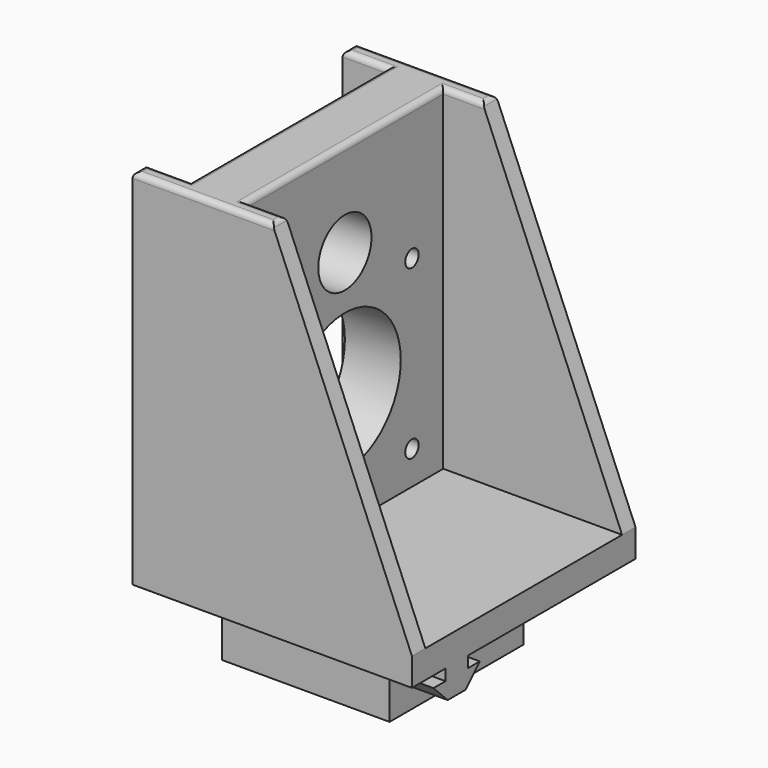
from build123d import *

# Parameters (mm, degrees)
SKETCH_W        = 50
SKETCH_H        = 85
PAD_DEPTH       = 50
POCKET_DEPTH    = 50
POCKET001_DEPTH = 30
SKETCH003_W     = 16
SKETCH003_H     = 26
POCKET002_DEPTH = 26
SKETCH004_R     = 2
POCKET003_DEPTH = 4
SKETCH005_R     = 2
POCKET004_DEPTH = 4
POCKET005_DEPTH = 2
SKETCH007_W     = 44
SKETCH007_H     = 60
POCKET006_DEPTH = 32
SKETCH008_R     = 12.5
SKETCH008_R_2   = 1.5
SKETCH008_R_3   = 5.95
POCKET007_DEPTH = 18
SKETCH009_W     = 44
SKETCH009_H     = 60
POCKET008_DEPTH = 8
POCKET009_DEPTH = 50.001
FILLET_R        = 1


with BuildPart() as part:
    # Sketch → Pad (new body)
    with BuildSketch(Plane.YZ):
        Rectangle(SKETCH_W, SKETCH_H)
    extrude(amount=PAD_DEPTH)

    # Sketch001 (on Face6 of Pad) → Pocket (cut)
    with BuildSketch(Plane.YZ.offset(50)):
        Polygon((-25, -22.5), (-25, -42.5), (-5, -42.5), (-5, -22.5), (-12.51604, -22.5), (-12.51604, -24.5), (-9.81604, -24.5), (-13, -27.68), (-17, -27.68), (-20.18396, -24.5), (-17.48396, -24.5), (-17.48396, -22.5), align=None)
    extrude(amount=-POCKET_DEPTH, mode=Mode.SUBTRACT)

    # Sketch002 (on Face3 of Pocket) → Pocket001 (cut)
    with BuildSketch(Plane.ZX.offset(25)):
        Polygon((-22.5, 50), (-42.5, 50), (-42.5, 30), (-22.5, 30), (-22.5, 37.52), (-24.5, 37.52), (-24.5, 34.82), (-27.68, 38), (-27.68, 42), (-24.5, 45.18), (-24.5, 42.48), (-22.5, 42.48), align=None)
    extrude(amount=-POCKET001_DEPTH, mode=Mode.SUBTRACT)

    # Sketch003 (on Face3 of Pocket001) → Pocket002 (cut)
    with BuildSketch(Plane.ZX.offset(25)):
        with Locations((-32.5, 13)):
            Rectangle(SKETCH003_W, SKETCH003_H)
    extrude(amount=-POCKET002_DEPTH, mode=Mode.SUBTRACT)

    # Sketch004 (on Face30 of Pocket002) → Pocket003 (cut)
    with BuildSketch(Plane.ZX.offset(-1)):
        with Locations((-32.5, 13)):
            Circle(SKETCH004_R)
    extrude(amount=-POCKET003_DEPTH, mode=Mode.SUBTRACT)

    # Sketch005 (on Face8 of Pocket003) → Pocket004 (cut)
    with BuildSketch(Plane(origin=(26, 0, 0), x_dir=(0, 1, 0), z_dir=(-1, 0, 0))):
        with Locations((12, 32.5)):
            Circle(SKETCH005_R)
    extrude(amount=-POCKET004_DEPTH, mode=Mode.SUBTRACT)

    # Sketch006 (on Face10 of Pocket004) → Pocket005 (cut)
    with BuildSketch(Plane.YX.offset(42.5)):
        Polygon((-1, 0), (25, 26), (25, 0), align=None)
    extrude(amount=-POCKET005_DEPTH, mode=Mode.SUBTRACT)

    # Sketch007 (on Face5 of Pocket005) → Pocket006 (cut)
    with BuildSketch(Plane.YZ.offset(50)):
        with Locations((0, 12.5)):
            Rectangle(SKETCH007_W, SKETCH007_H)
    extrude(amount=-POCKET006_DEPTH, mode=Mode.SUBTRACT)

    # Sketch008 (on Face6 of Pocket006) → Pocket007 (cut)
    with BuildSketch(Plane.YZ.offset(18)):
        with Locations((0, 3.5)):
            Circle(SKETCH008_R)
        with Locations((-15, 18.5)):
            Circle(SKETCH008_R_2)
        with Locations((15, 18.5)):
            Circle(SKETCH008_R_2)
        with Locations((15, -11.5)):
            Circle(SKETCH008_R_2)
        with Locations((-15, -11.5)):
            Circle(SKETCH008_R_2)
        with Locations((0, 25.5)):
            Circle(SKETCH008_R_3)
    extrude(amount=-POCKET007_DEPTH, mode=Mode.SUBTRACT)

    # Sketch009 (on Face2 of Pocket007) → Pocket008 (cut)
    with BuildSketch(Plane(origin=(0, 0, 0), x_dir=(0, 1, 0), z_dir=(-1, 0, 0))):
        with Locations((0, -12.5)):
            Rectangle(SKETCH009_W, SKETCH009_H)
    extrude(amount=-POCKET008_DEPTH, mode=Mode.SUBTRACT)

    # Sketch010 (on Face11 of Pocket008) → Pocket009 (cut, through all)
    with BuildSketch(Plane(origin=(0, -25, 0), x_dir=(0, 0, -1), z_dir=(0, -1, 0))):
        Polygon((17.5, 50), (-42.5, 50), (-42.5, 25), align=None)
    extrude(amount=-POCKET009_DEPTH, mode=Mode.SUBTRACT)

    # Fillet
    fillet_edges = [part.edges().sort_by_distance(p)[0] for p in [
        (18, 0, 42.5),
        (0, -23.5, 42.5),
        (4, -22, 42.5),
        (8, 0, 42.5),
        (4, 22, 42.5),
        (0, 23.5, 42.5),
        (12.5, 25, 42.5),
        (25, 23.5, 42.5),
        (21.5, 22, 42.5),
        (21.5, -22, 42.5),
        (25, -23.5, 42.5),
        (12.5, -25, 42.5),
    ]]
    fillet(fillet_edges, radius=FILLET_R)


solid = part.part
